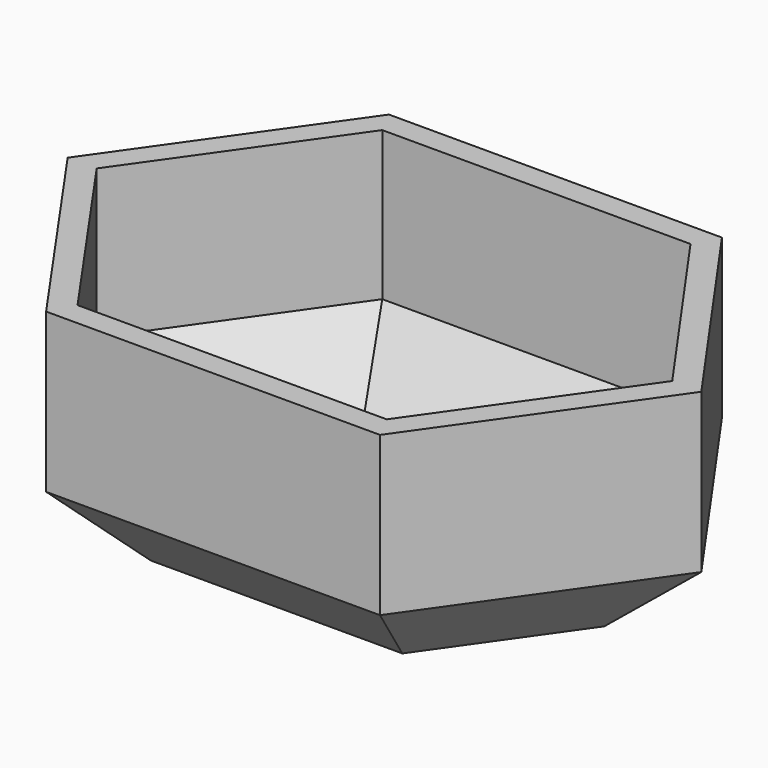
from build123d import *

# Parameters (mm, degrees)
F1_DEPTH = 76.2
F2_SIZE  = 25.4
F3_T     = -7.62


with BuildPart() as f1:
    # F0 (on Top) → F1 (new body)
    with BuildSketch(Plane.XY):
        Polygon((-52.830831, 42.997032), (0, 42.997032), (53.74952, 42.997032), (53.74952, 68.397032), (-52.830831, 68.397032), align=None)
        Polygon((-75.556472, 0), (-52.830831, 42.997032), (-52.830831, 68.397032), (-100.956472, 0), align=None)
        Polygon((53.74952, 68.397032), (53.74952, 42.997032), (76.477893, 0), (101.877893, 0), align=None)
        Polygon((53.74952, 42.997032), (0, 42.997032), (-52.830831, 42.997032), (-75.556472, 0), (-52.830831, -43.0022), (53.74952, -43.0022), (76.477893, 0), align=None)
        Polygon((101.877893, 0), (76.477893, 0), (53.74952, -43.0022), (53.74952, -68.4022), align=None)
        Polygon((53.74952, -43.0022), (-52.830831, -43.0022), (-53.135242, -68.4022), (53.74952, -68.4022), align=None)
        Polygon((-52.830831, -43.0022), (-75.556472, 0), (-100.956472, 0), (-53.135242, -68.4022), align=None)
    extrude(amount=F1_DEPTH)

    # F2
    f2_edges = [f1.edges().sort_by_distance(p)[0] for p in [
        (0.459345, 68.397032, 0),
        (-76.893652, 34.198516, 0),
        (-77.045857, -34.2011, 0),
        (0.307139, -68.4022, 0),
        (77.813707, -34.2011, 0),
        (77.813707, 34.198516, 0),
    ]]
    chamfer(f2_edges, length=F2_SIZE)

    # F3
    f3_openings = [f1.faces().sort_by_distance(p)[0] for p in [
        (0.425958, -0.024737, 76.2),
    ]]
    offset(amount=F3_T, openings=f3_openings)


solid = f1.part
